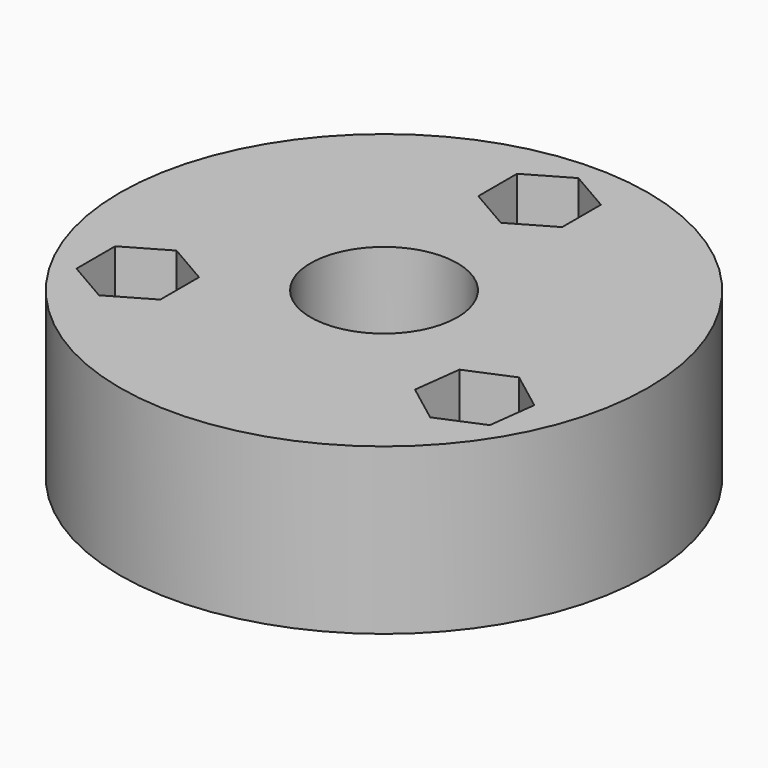
from build123d import *

# Parameters (mm, degrees)
F0_R     = 40
F0_R_2   = 11.1125
F1_DEPTH = 7.5
F2_DEPTH = 25


with BuildPart() as f1:
    # F0 (on Top) → F1 (new body)
    with BuildSketch(Plane.XY):
        Circle(F0_R)
        Polygon((-25.510716, -7.39627), (-19.160716, -11.062445), (-19.160716, -18.394793), (-25.510716, -22.060967), (-31.860716, -18.394793), (-31.860716, -11.062445), align=None, mode=Mode.SUBTRACT)
        Polygon((26.423282, -7.45328), (32.267627, -11.881254), (31.355062, -19.156593), (24.59815, -22.003958), (18.753805, -17.575983), (19.666371, -10.300644), align=None, mode=Mode.SUBTRACT)
        Circle(F0_R_2, mode=Mode.SUBTRACT)
        Polygon((0, 36.789586), (6.35, 33.123412), (6.35, 25.791063), (0, 22.124889), (-6.35, 25.791063), (-6.35, 33.123412), align=None, mode=Mode.SUBTRACT)
    extrude(amount=F1_DEPTH)

    # F0 (on Top) → F2 (join)
    with BuildSketch(Plane.XY):
        Circle(F0_R)
        Polygon((-25.510716, -7.39627), (-19.160716, -11.062445), (-19.160716, -18.394793), (-25.510716, -22.060967), (-31.860716, -18.394793), (-31.860716, -11.062445), align=None, mode=Mode.SUBTRACT)
        Polygon((26.423282, -7.45328), (32.267627, -11.881254), (31.355062, -19.156593), (24.59815, -22.003958), (18.753805, -17.575983), (19.666371, -10.300644), align=None, mode=Mode.SUBTRACT)
        Circle(F0_R_2, mode=Mode.SUBTRACT)
        Polygon((0, 36.789586), (6.35, 33.123412), (6.35, 25.791063), (0, 22.124889), (-6.35, 25.791063), (-6.35, 33.123412), align=None, mode=Mode.SUBTRACT)
    extrude(amount=F2_DEPTH)


solid = f1.part
